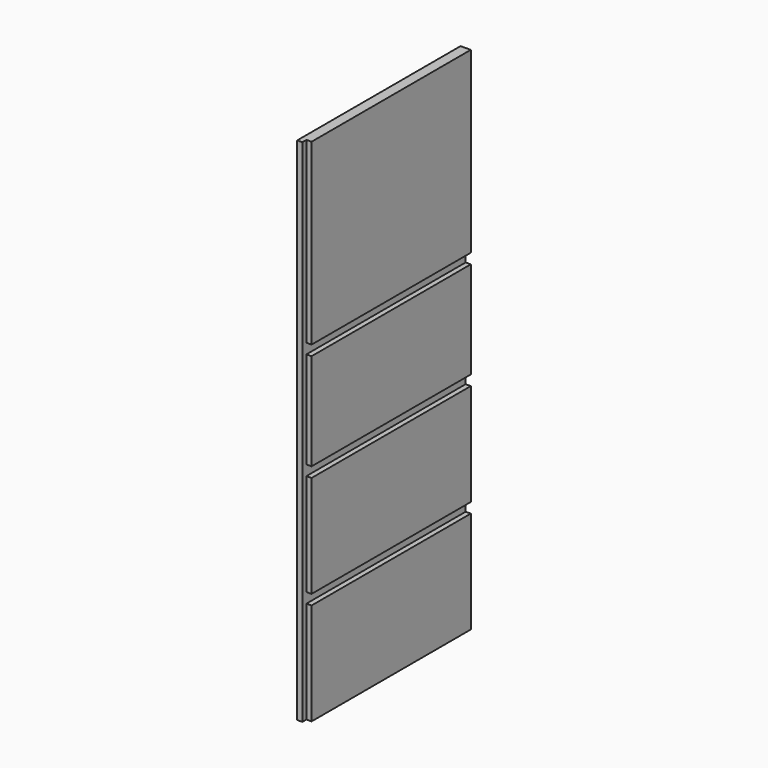
from build123d import *

# Parameters (mm, degrees)
F0_W     = 10
F0_H     = 350
F0_H_2   = 20
F0_H_3   = 190
F0_H_4   = 200
F0_W_2   = 390
F1_DEPTH = 10
F2_DEPTH = 20


with BuildPart() as f1:
    # F0 (on Right) → F1 (new body)
    with BuildSketch(Plane.YZ):
        with Locations((-293.3323026407, 318.149029091)):
            Rectangle(F0_W, F0_H)
        with Locations((-293.3323026407, 133.149029091)):
            Rectangle(F0_W, F0_H_2)
        with Locations((-293.3323026407, 28.149029091)):
            Rectangle(F0_W, F0_H_3)
        with Locations((-293.3323026407, -76.850970909)):
            Rectangle(F0_W, F0_H_2)
        with Locations((-293.3323026407, -186.850970909)):
            Rectangle(F0_W, F0_H_4)
        with Locations((-93.3323026407, 133.149029091)):
            Rectangle(F0_W_2, F0_H_2)
        with Locations((-93.3323026407, -76.850970909)):
            Rectangle(F0_W_2, F0_H_2)
        with Locations((-93.3323026407, -296.850970909)):
            Rectangle(F0_W_2, F0_H_2)
        with Locations((-293.3323026407, -296.850970909)):
            Rectangle(F0_W, F0_H_2)
        with Locations((-293.3323026407, -406.850970909)):
            Rectangle(F0_W, F0_H_4)
    extrude(amount=F1_DEPTH)

    # F0 (on Right) → F2 (join)
    with BuildSketch(Plane.YZ):
        with Locations((-93.3323026407, 318.149029091)):
            Rectangle(F0_W_2, F0_H)
        with Locations((-93.3323026407, 28.149029091)):
            Rectangle(F0_W_2, F0_H_3)
        with Locations((-93.3323026407, -186.850970909)):
            Rectangle(F0_W_2, F0_H_4)
        with Locations((-93.3323026407, -406.850970909)):
            Rectangle(F0_W_2, F0_H_4)
    extrude(amount=F2_DEPTH)


solid = f1.part
